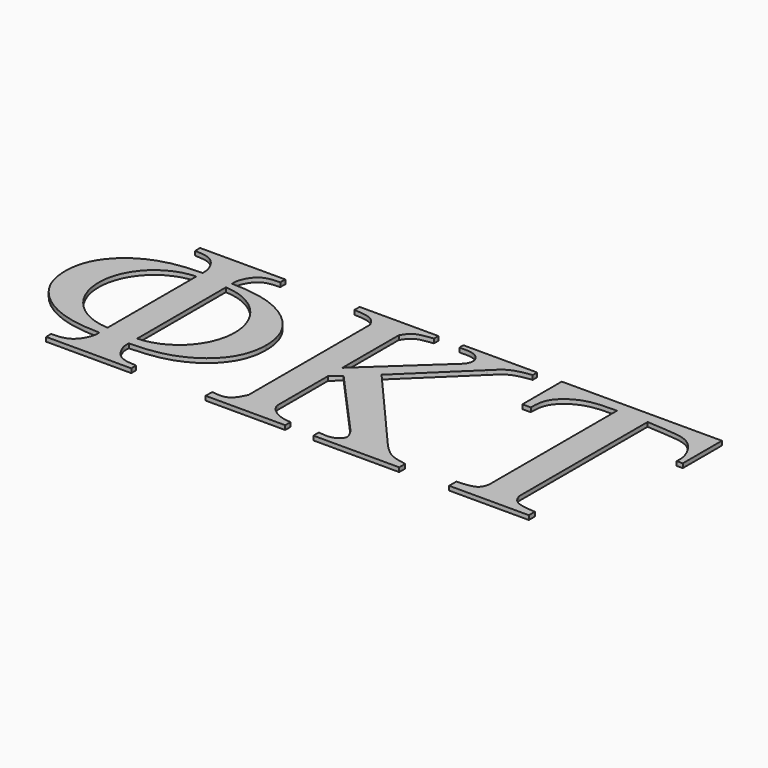
from build123d import *

# Parameters (mm, degrees)
F1_DEPTH = 2.54
F2_W     = 602.5793105364
F2_H     = 243.5958907008
F3_DEPTH = 2.54


with BuildPart() as f1:
    # F0 (on Top) → F1 (new body)
    with BuildSketch(Plane.XY):
        with BuildLine():
            Line((-69.7635483229, 57.4059132741), (-95.1635483229, 57.4059132741))
            Line((-95.1635483229, 57.4059132741), (-95.1635483229, 53.7165255108))
            add(Edge.make_bspline(
                [(-95.1635483229, 53.7165255108), (-91.3032409816, 53.5783986368), (-83.7072737598, 53.306604939), (-78.2478533703, 42.9895455517), (-78.4786919856, 39.7790776836), (-78.5692110089, 38.5201530647)],
                knots=[0, 0, 0, 0, 0.3858065452, 0.7591555833, 1, 1, 1, 1], degree=3))
            add(Edge.make_bspline(
                [(-78.5692110089, 38.5201530647), (-84.5362422757, 38.4332970287), (-98.1471059941, 37.5648360945), (-116.8947668137, 29.1109906389), (-128.8405157483, 14.0244150421), (-129.7674531854, 2.312749047), (-129.6753650631, 0)],
                knots=[0, 0, 0, 0, 0.260988986, 0.5287181577, 0.7895137826, 1, 1, 1, 1], degree=3))
            add(Edge.make_bspline(
                [(-78.5692110089, -38.5201530647), (-84.5362422757, -38.4332970287), (-98.1471059941, -37.5648360945), (-116.8947668137, -29.1109906389), (-128.8405157483, -14.0244150421), (-129.7674531854, -2.312749047), (-129.6753650631, 0)],
                knots=[0, 0, 0, 0, 0.260988986, 0.5287181577, 0.7895137826, 1, 1, 1, 1], degree=3))
            add(Edge.make_bspline(
                [(-95.1635483229, -53.7165255108), (-91.3032409816, -53.5783986368), (-83.7072737598, -53.306604939), (-78.2478533703, -42.9895455517), (-78.4786919856, -39.7790776836), (-78.5692110089, -38.5201530647)],
                knots=[0, 0, 0, 0, 0.3858065452, 0.7591555833, 1, 1, 1, 1], degree=3))
            Line((-95.1635483229, -53.7165255108), (-95.1635483229, -57.4059132741))
            Line((-95.1635483229, -57.4059132741), (-69.7635483229, -57.4059132741))
            Line((-69.7635483229, -57.4059132741), (-69.7635483229, 57.4059132741))
        make_face()
        with BuildLine():
            ThreePointArc((-78.5692110089, -32.2747373481), (-110.3363536252, 0.8107026173), (-78.5692110089, 33.8961425826))
            Line((-78.5692110089, 33.8961425826), (-78.5692110089, 0))
            Line((-78.5692110089, 0), (-78.5692110089, -32.2747373481))
        make_face(mode=Mode.SUBTRACT)
        with BuildLine():
            Line((-44.3635483229, 57.4059132741), (-69.7635483229, 57.4059132741))
            Line((-69.7635483229, 57.4059132741), (-69.7635483229, -57.4059132741))
            Line((-69.7635483229, -57.4059132741), (-44.3635483229, -57.4059132741))
            Line((-44.3635483229, -57.4059132741), (-44.3635483229, -53.7165255108))
            add(Edge.make_bspline(
                [(-44.3635483229, -53.7165255108), (-48.2238556642, -53.5783986368), (-55.8198228859, -53.306604939), (-61.2792432755, -42.9895455517), (-61.0484046601, -39.7790776836), (-60.9578856368, -38.5201530647)],
                knots=[0, 0, 0, 0, 0.3858065452, 0.7591555833, 1, 1, 1, 1], degree=3))
            add(Edge.make_bspline(
                [(-60.9578856368, -38.5201530647), (-54.99085437, -38.4332970287), (-41.3799906516, -37.5648360945), (-22.6323298321, -29.1109906389), (-10.6865808975, -14.0244150421), (-9.7596434604, -2.312749047), (-9.8517315826, 0)],
                knots=[0, 0, 0, 0, 0.260988986, 0.5287181577, 0.7895137826, 1, 1, 1, 1], degree=3))
            add(Edge.make_bspline(
                [(-60.9578856368, 38.5201530647), (-54.99085437, 38.4332970287), (-41.3799906516, 37.5648360945), (-22.6323298321, 29.1109906389), (-10.6865808975, 14.0244150421), (-9.7596434604, 2.312749047), (-9.8517315826, 0)],
                knots=[0, 0, 0, 0, 0.260988986, 0.5287181577, 0.7895137826, 1, 1, 1, 1], degree=3))
            add(Edge.make_bspline(
                [(-44.3635483229, 53.7165255108), (-48.2238556642, 53.5783986368), (-55.8198228859, 53.306604939), (-61.2792432755, 42.9895455517), (-61.0484046601, 39.7790776836), (-60.9578856368, 38.5201530647)],
                knots=[0, 0, 0, 0, 0.3858065452, 0.7591555833, 1, 1, 1, 1], degree=3))
            Line((-44.3635483229, 53.7165255108), (-44.3635483229, 57.4059132741))
        make_face()
        with BuildLine():
            Line((-60.9578856368, 0), (-60.9578856368, 33.8961425826))
            ThreePointArc((-60.9578856368, 33.8961425826), (-29.1907430205, 0.8107026173), (-60.9578856368, -32.2747373481))
            Line((-60.9578856368, -32.2747373481), (-60.9578856368, 0))
        make_face(mode=Mode.SUBTRACT)
    extrude(amount=F1_DEPTH)


with BuildPart() as f1b:
    # F0 (on Top) → F1, piece 2 (new body)
    with BuildSketch(Plane.XY):
        with BuildLine():
            Line((15.0312080813, 46.6626754542), (15.0312080813, -44.2586236274))
            add(Edge.make_bspline(
                [(0, -52.5342177984), (1.0417254513, -52.5342177984), (9.8768053078, -54.4209252677), (13.15479739, -48.147935277), (15.0312080813, -44.2586236274)],
                knots=[0, 0, 0, 0, 0.4624454469, 1, 1, 1, 1], degree=3))
            Line((0, -52.5342177984), (0, -57.4059132741))
            Line((0, -57.4059132741), (47.4604713734, -57.4059132741))
            Line((47.4604713734, -57.4059132741), (47.4604713734, -53.4396920118))
            add(Edge.make_bspline(
                [(47.4604713734, -53.4396920118), (44.4200368097, -53.1706595717), (38.8806565826, -52.434578092), (32.4466357123, -47.1375636916), (32.0815469704, -43.716837814)],
                knots=[0, 0, 0, 0, 0.4808917688, 1, 1, 1, 1], degree=3))
            Line((32.0815469704, -43.716837814), (32.0815469704, -6.1835568628))
            Line((32.0815469704, -6.1835568628), (37.5747432401, -1.5085025872))
            Line((37.5747432401, -1.5085025872), (74.6877068903, -42.7611778189))
            add(Edge.make_bspline(
                [(64.2675012435, -53.3511242267), (66.9904733814, -53.7227410487), (72.1445233128, -54.4261384979), (79.1160162865, -49.513122206), (76.1853605985, -45.0446846032), (74.6877068903, -42.7611778189)],
                knots=[0, 0, 0, 0, 0.3538713129, 0.6698086957, 1, 1, 1, 1], degree=3))
            Line((64.2675012435, -53.3511242267), (64.2675012435, -57.4059132741))
            Line((64.2675012435, -57.4059132741), (115.4419480451, -57.4059132741))
            Line((115.4419480451, -57.4059132741), (115.4419480451, -52.9497714859))
            add(Edge.make_bspline(
                [(115.4419480451, -52.9497714859), (111.929007672, -52.3516227758), (104.8545009021, -51.1470457975), (99.8265362569, -45.8260070489), (97.2952742895, -43.1472008197)],
                knots=[0, 0, 0, 0, 0.4965632923, 1, 1, 1, 1], degree=3))
            Line((97.2952742895, -43.1472008197), (50.6888684884, 10.3728463997))
            Line((50.6888684884, 10.3728463997), (86.1698702601, 44.6497307785))
            add(Edge.make_bspline(
                [(86.1698702601, 44.6497307785), (88.6046135444, 47.1557989881), (93.6687073386, 52.3682435813), (101.7130311796, 53.4949115172), (105.8897600974, 54.0798937533)],
                knots=[0, 0, 0, 0, 0.4807855824, 1, 1, 1, 1], degree=3))
            Line((105.8897600974, 54.0798937533), (105.8897600974, 57.4059132741))
            Line((105.8897600974, 57.4059132741), (61.8392000344, 57.4059132741))
            Line((61.8392000344, 57.4059132741), (61.8392000344, 54.3805714916))
            add(Edge.make_bspline(
                [(73.9434983857, 43.2532406243), (74.7921079461, 44.6804079243), (76.6370571494, 47.7831907537), (72.0835068154, 54.7677163862), (65.4823542386, 54.518250749), (61.8392000344, 54.3805714916)],
                knots=[0, 0, 0, 0, 0.2762338687, 0.6005558736, 1, 1, 1, 1], degree=3))
            Line((73.9434983857, 43.2532406243), (32.0815469704, 4.4235725389))
            Line((32.0815469704, 4.4235725389), (32.0815469704, 46.473262822))
            add(Edge.make_bspline(
                [(32.0815469704, 46.473262822), (33.2966124138, 48.4497065283), (36.0236034249, 52.8854710794), (43.0561605898, 53.6538702292), (46.9552211076, 54.0798937533)],
                knots=[0, 0, 0, 0, 0.4455700215, 1, 1, 1, 1], degree=3))
            Line((46.9552211076, 54.0798937533), (46.9552211076, 57.4059132741))
            Line((46.9552211076, 57.4059132741), (0, 57.4059132741))
            Line((0, 57.4059132741), (0, 53.4785443456))
            add(Edge.make_bspline(
                [(15.0312080813, 46.6626754542), (13.8320708177, 48.5971526959), (11.1167205479, 52.9776214376), (3.9832362609, 53.2990584727), (0, 53.4785443456)],
                knots=[0, 0, 0, 0, 0.4416142097, 1, 1, 1, 1], degree=3))
        make_face()
    extrude(amount=F1_DEPTH)


with BuildPart() as f1c:
    # F0 (on Top) → F1, piece 3 (new body)
    with BuildSketch(Plane.XY):
        with BuildLine():
            add(Edge.make_bspline(
                [(158.9915424015, 50.5443920614), (152.38165043, 50.5486874846), (139.8105332639, 50.5568567963), (125.7374746376, 39.7695060836), (125.6062021514, 31.7051308011), (125.5464921343, 28.0370050591)],
                knots=[0, 0, 0, 0, 0.3767388978, 0.7165062373, 1, 1, 1, 1], degree=3))
            Line((158.9915424015, 50.5443920614), (158.9915424015, -45.0958256047))
            add(Edge.make_bspline(
                [(158.9915424015, -45.0958256047), (158.4404982104, -46.9286305172), (157.1012269393, -51.3831243748), (149.6177217356, -51.8075651394), (145.2133104846, -52.0573694261)],
                knots=[0, 0, 0, 0, 0.4114507666, 1, 1, 1, 1], degree=3))
            Line((145.2133104846, -52.0573694261), (145.2133104846, -57.4059132741))
            Line((145.2133104846, -57.4059132741), (192.77124951, -57.4059132741))
            Line((192.77124951, -57.4059132741), (192.77124951, -52.9512826123))
            add(Edge.make_bspline(
                [(177.2165762532, -45.4424349095), (178.0001061434, -47.3343375977), (179.9059689007, -51.9362129302), (188.0030214748, -52.5750697754), (192.77124951, -52.9512826123)],
                knots=[0, 0, 0, 0, 0.4111155891, 1, 1, 1, 1], degree=3))
            Line((177.2165762532, -45.4424349095), (177.2165762532, 50.5635451332))
            add(Edge.make_bspline(
                [(177.2165762532, 50.5635451332), (181.8022767761, 50.2677587533), (190.89960941, 49.6809635465), (204.9656834592, 48.4535677259), (212.7734382816, 35.0396926696), (212.535051211, 30.1889662243), (212.4380799979, 28.2157852689)],
                knots=[0, 0, 0, 0, 0.2722174992, 0.5400381309, 0.8128964784, 1, 1, 1, 1], degree=3))
            Line((212.4380799979, 28.2157852689), (216.0664340341, 28.2157852689))
            Line((216.0664340341, 28.2157852689), (216.0664340341, 57.4059132741))
            Line((216.0664340341, 57.4059132741), (120.540391373, 57.4059132741))
            Line((120.540391373, 57.4059132741), (120.540391373, 28.0370050591))
            Line((120.540391373, 28.0370050591), (125.5464921343, 28.0370050591))
        make_face()
    extrude(amount=F1_DEPTH)


with BuildPart() as f3:
    # F2 (on face) → F3 (new body)
    with BuildSketch(Plane(origin=(0, 0, 0), x_dir=(1, 0, 0), z_dir=(0, 0, -1))):
        with Locations((72.2850486636, -7.4851848185)):
            Rectangle(F2_W, F2_H)
    extrude(amount=F3_DEPTH)


solid = Compound([f1.part, f1b.part, f1c.part])
